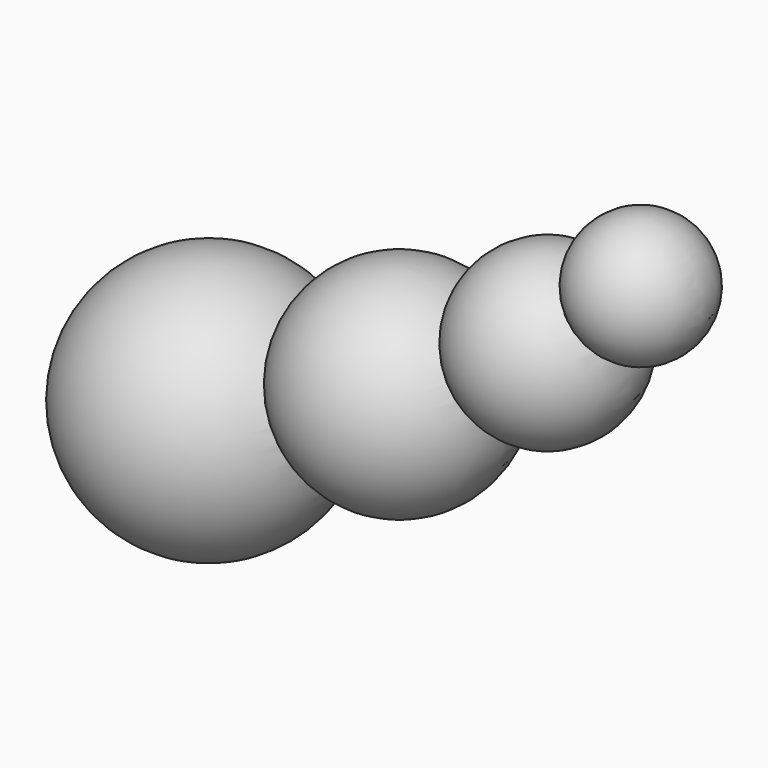
from build123d import *

# Parameters (mm, degrees)
SKETCH006_R = 5.5


with BuildPart() as sweep_body:
    # Sweep: sweep along a path in Sketch
    with BuildLine(Plane.XZ) as sweep_path:
        ThreePointArc((0, 0), (77.031518, 16.556214), (140.457946, 63.300744))
    # Sketch006 → Sweep (sweep)
    with BuildSketch(Plane(origin=(0, 0, 0), x_dir=(0, -1, 0), z_dir=(-1, 0, 0))):
        Circle(SKETCH006_R)
    sweep(path=sweep_path.line)


with BuildPart() as sphere002:
    # Sphere002 → Sphere002 (revolve)
    with BuildSketch(Plane(origin=(112, 0, 40), x_dir=(1, 0, 0), z_dir=(0, -1, 0))):
        with BuildLine():
            ThreePointArc((0, -20), (20, 0), (0, 20))
            Line((0, 20), (0, -20))
        make_face()
    revolve(axis=Axis((112, 0, 40), (0, 0, 1)))


with BuildPart() as sphere001:
    # Sphere001 → Sphere001 (revolve)
    with BuildSketch(Plane(origin=(77, 0, 20), x_dir=(1, 0, 0), z_dir=(0, -1, 0))):
        with BuildLine():
            ThreePointArc((0, -25), (25, 0), (0, 25))
            Line((0, 25), (0, -25))
        make_face()
    revolve(axis=Axis((77, 0, 20), (0, 0, 1)))


with BuildPart() as sphere003:
    # Sphere003 → Sphere003 (revolve)
    with BuildSketch(Plane(origin=(134, 0, 59), x_dir=(1, 0, 0), z_dir=(0, -1, 0))):
        with BuildLine():
            ThreePointArc((0, -15), (15, 0), (0, 15))
            Line((0, 15), (0, -15))
        make_face()
    revolve(axis=Axis((134, 0, 59), (0, 0, 1)))


with BuildPart() as fusion:
    # Sphere → Sphere (revolve)
    with BuildSketch(Plane(origin=(32, 0, 2), x_dir=(1, 0, 0), z_dir=(0, -1, 0))):
        with BuildLine():
            ThreePointArc((0, -30), (30, 0), (0, 30))
            Line((0, 30), (0, -30))
        make_face()
    revolve(axis=Axis((32, 0, 2), (0, 0, 1)))

    # Fusion: union Sphere002, Sphere001, Sphere003
    add(sphere002.part)
    add(sphere001.part)
    add(sphere003.part)


solid = Compound([sweep_body.part, fusion.part])
